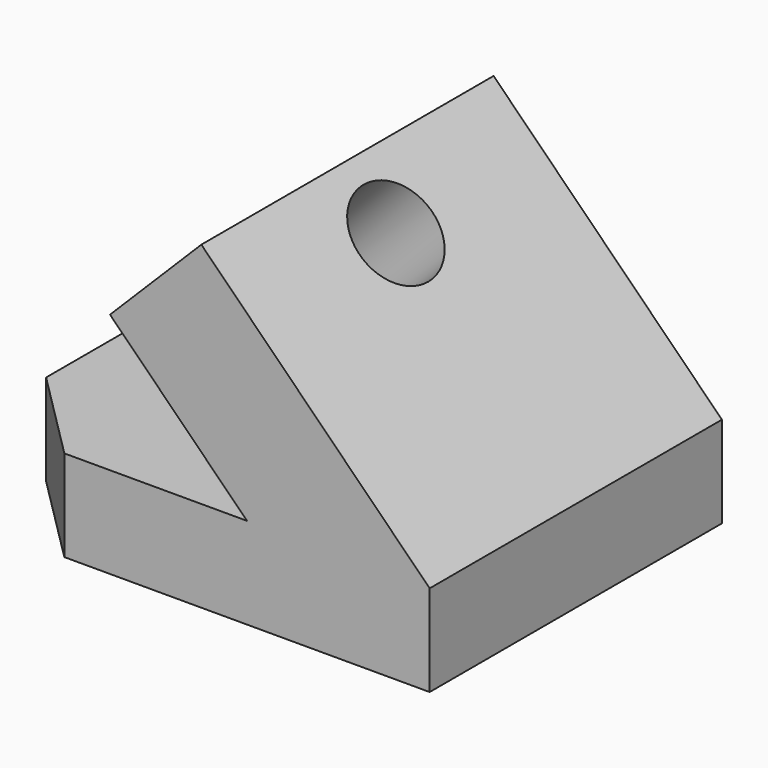
from build123d import *

# Parameters (mm, degrees)
F1_DEPTH = 101.6
F3_DEPTH = 50.8
F4_R     = 25.4
F5_DEPTH = 88.9


with BuildPart() as f1:
    # F0 (on Front) → F1 (new body, symmetric)
    with BuildSketch(Plane.XZ):
        Polygon((0, 50.8), (0, 0), (254, 0), (254, 50.8), (127, 177.8), (76.2, 127), (152.4, 50.8), align=None)
    extrude(amount=F1_DEPTH, both=True)

    # F2 (on face) → F3 (cut)
    with BuildSketch(Plane.XY.offset(50.8)):
        Polygon((0, 101.6), (0, 50.8), (50.8, 101.6), align=None)
        Polygon((50.8, -101.6), (0, -50.8), (0, -101.6), align=None)
    extrude(amount=-F3_DEPTH, mode=Mode.SUBTRACT)

    # F4 (on face) → F5 (cut)
    with BuildSketch(Plane(origin=(152.4, 0, 152.4), x_dir=(0.707107, 0, -0.707107), z_dir=(0.707107, 0, 0.707107))):
        with Locations((2.178976, 0)):
            Circle(F4_R)
    extrude(amount=-F5_DEPTH, mode=Mode.SUBTRACT)


solid = f1.part
